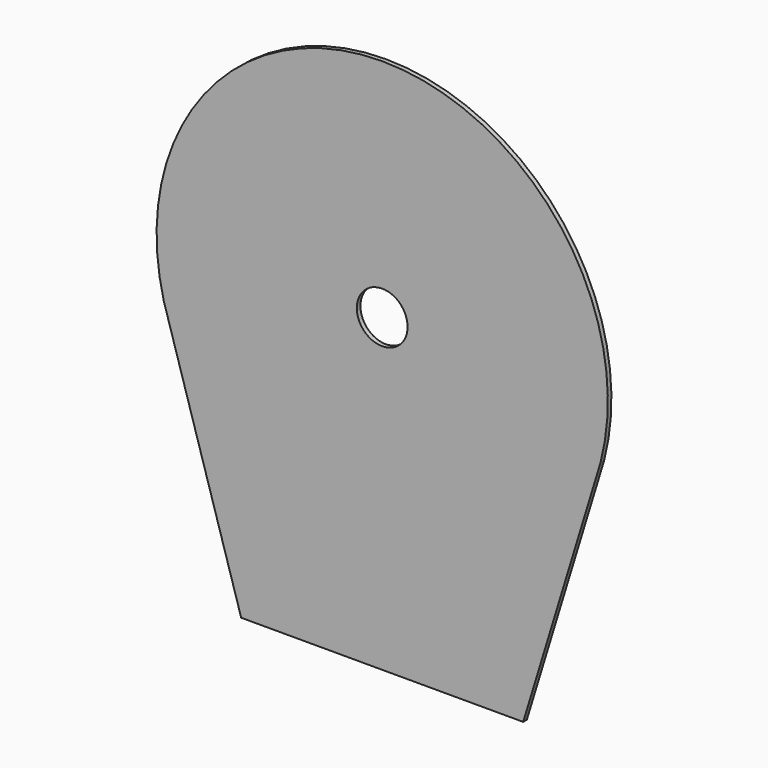
from build123d import *

# Parameters (mm, degrees)
F0_R     = 45
F1_DEPTH = 8


with BuildPart() as f1:
    # F0 (on Front) → F1 (new body)
    with BuildSketch(Plane.XZ):
        with BuildLine():
            Line((250, -550), (387.298335, -100))
            ThreePointArc((387.298335, -100), (0, 400), (-387.298335, -100))
            Line((-387.298335, -100), (-250, -550))
            Line((-250, -550), (24.55101, -550))
            Line((24.55101, -550), (250, -550))
        make_face()
        Circle(F0_R, mode=Mode.SUBTRACT)
    extrude(amount=F1_DEPTH)


solid = f1.part
